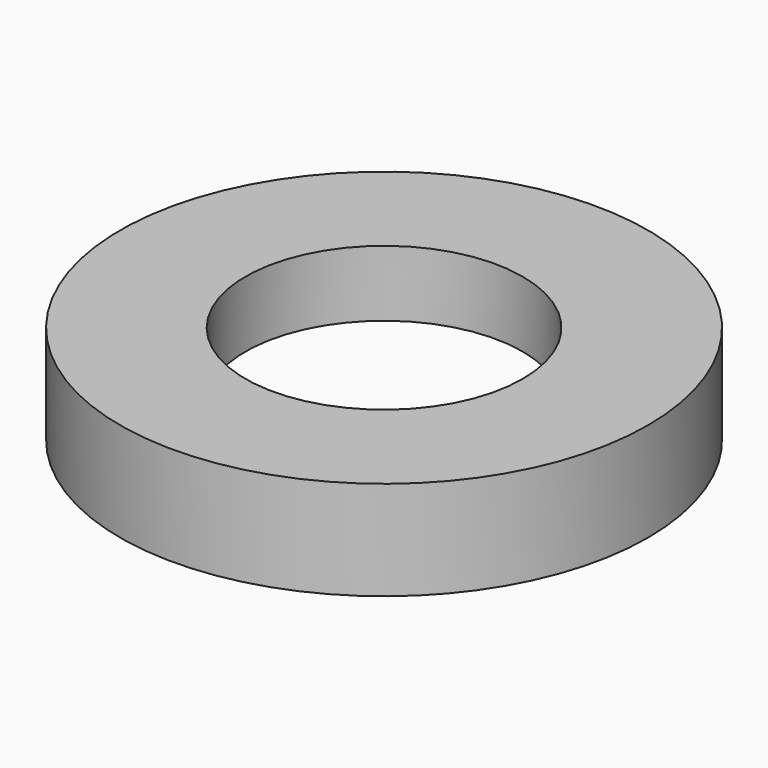
from build123d import *

# Parameters (mm, degrees)
CYLINDER014005855_R     = 7
CYLINDER014005855_DEPTH = 1
TUBE004_R               = 8
TUBE004_R_2             = 4.2
TUBE004_DEPTH           = 3


with BuildPart() as obj1:
    # Cylinder014005855 → Cylinder014005855 (new body)
    with BuildSketch(Plane.XY):
        Circle(CYLINDER014005855_R)
    extrude(amount=CYLINDER014005855_DEPTH)


with BuildPart() as ring:
    # Tube004 → Tube004 (new body)
    with BuildSketch(Plane.XY):
        Circle(TUBE004_R)
        Circle(TUBE004_R_2, mode=Mode.SUBTRACT)
    extrude(amount=TUBE004_DEPTH)

    # Cut009003003007: cut obj1
    add(obj1.part, mode=Mode.SUBTRACT)


solid = ring.part
